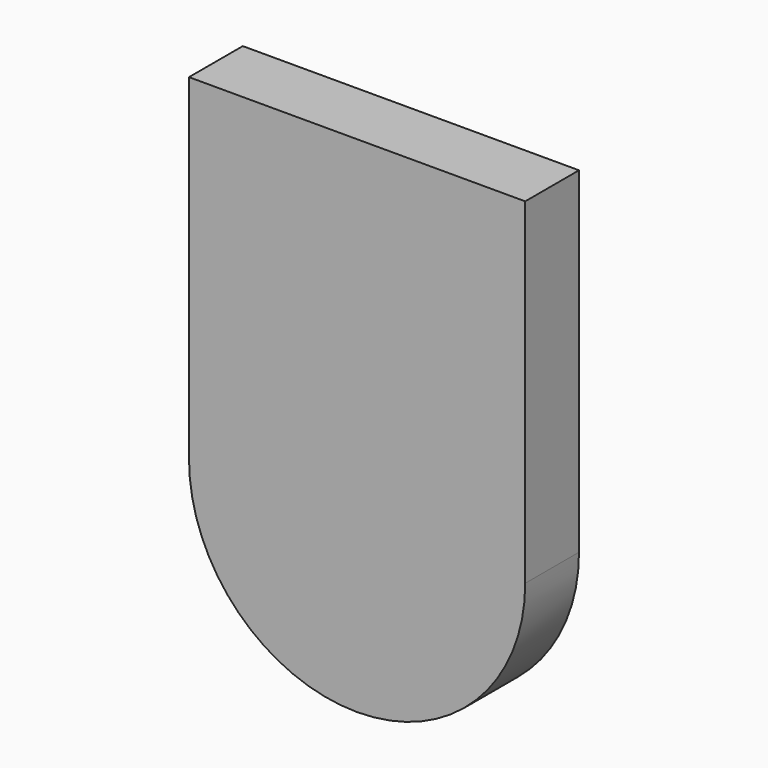
from build123d import *

# Parameters (mm, degrees)
F1_DEPTH = 5


with BuildPart() as f1:
    # F0 (on Front) → F1 (new body, symmetric)
    with BuildSketch(Plane.XZ):
        with BuildLine():
            ThreePointArc((-25, 0), (0, 25), (25, 0))
            Line((25, 0), (25, 50))
            Line((25, 50), (-25, 50))
            Line((-25, 50), (-25, 0))
        make_face()
        with BuildLine():
            Line((-25, 0), (25, 0))
            ThreePointArc((25, 0), (0, 25), (-25, 0))
        make_face()
        with BuildLine():
            ThreePointArc((-25, 0), (0, -25), (25, 0))
            Line((25, 0), (-25, 0))
        make_face()
    extrude(amount=F1_DEPTH, both=True)


solid = f1.part
